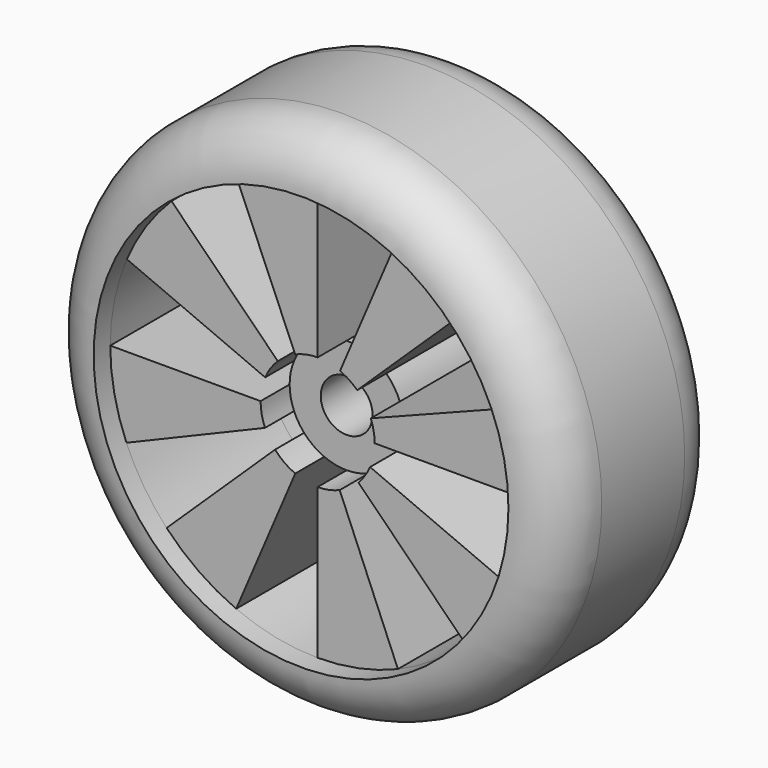
from build123d import *

# Parameters (mm, degrees)
F0_R      = 50
F1_DEPTH  = 40
F3_R      = 10
F2_R      = 40
F4_DEPTH  = 4
F5_R      = 40
F6_DEPTH  = 4
F7_R      = 11
F8_DEPTH  = 7
F9_R      = 11
F10_DEPTH = 7
F12_D     = 10
F14_DEPTH = 25
F16_DEPTH = 32


with BuildPart() as f1:
    # F0 (on Front) → F1 (new body)
    with BuildSketch(Plane.XZ):
        Circle(F0_R)
    extrude(amount=F1_DEPTH)

    # F3
    f3_edges = [f1.edges().sort_by_distance(p)[0] for p in [
        (-50, 0, 0),
        (50, -20, 0),
        (-50, -40, 0),
    ]]
    fillet(f3_edges, radius=F3_R)

    # F2 (on face) → F4 (cut)
    with BuildSketch(Plane.XZ.offset(40)):
        Circle(F2_R)
    extrude(amount=-F4_DEPTH, mode=Mode.SUBTRACT)

    # F5 (on face) → F6 (cut)
    with BuildSketch(Plane(origin=(0, 0, 0), x_dir=(-1, 0, 0), z_dir=(0, 1, 0))):
        Circle(F5_R)
    extrude(amount=-F6_DEPTH, mode=Mode.SUBTRACT)

    # F7 (on face) → F8 (cut)
    with BuildSketch(Plane(origin=(0, -4, 0), x_dir=(-1, 0, 0), z_dir=(0, 1, 0))):
        Circle(F7_R)
    extrude(amount=-F8_DEPTH, mode=Mode.SUBTRACT)

    # F9 (on face) → F10 (cut)
    with BuildSketch(Plane.XZ.offset(36)):
        Circle(F9_R)
    extrude(amount=-F10_DEPTH, mode=Mode.SUBTRACT)

    # F12 (through all)
    with Locations(Plane(origin=(0, -4, 0), x_dir=(-1, 0, 0), z_dir=(0, 1, 0))):
        with Locations((0, 0)):
            Hole(F12_D / 2)

    # F15 (on face) + F13 (on face) → F16 (cut, through all)
    with BuildSketch(Plane(origin=(0, -4, 0), x_dir=(-1, 0, 0), z_dir=(0, 1, 0))):
        with BuildLine():
            ThreePointArc((-28.5424011699, 28.0237637632), (-33.5895367831, 21.7196459155), (-37.2675737992, 14.5302423628))
            Line((-37.2675737992, 14.5302423628), (-10.2485827948, 3.9958166498))
            ThreePointArc((-10.2485827948, 3.9958166498), (-9.1543588219, 6.0989929136), (-7.6348977457, 7.9188595399))
            Line((-7.6348977457, 7.9188595399), (-28.5424011699, 28.0237637632))
        make_face()
    with BuildSketch(Plane(origin=(0, -4, 0), x_dir=(-1, 0, 0), z_dir=(0, 1, 0))):
        with BuildLine():
            Line((-36.7860355942, -15.7094743788), (-10.1161597884, -4.3201054542))
            ThreePointArc((-10.1161597884, -4.3201054542), (-10.7767749738, -2.2047950389), (-11, 0))
            Line((-11, 0), (-40, 0))
            ThreePointArc((-40, 0), (-39.1882726321, -8.0174365052), (-36.7860355942, -15.7094743788))
        make_face()
        with BuildLine():
            Line((-15.4837652661, -36.8816080613), (-4.2580354482, -10.1424422168))
            ThreePointArc((-4.2580354482, -10.1424422168), (-6.1860832703, -9.0957338227), (-7.8680698212, -7.6872281928))
            Line((-7.8680698212, -7.6872281928), (-28.3692806361, -28.1990055887))
            ThreePointArc((-28.3692806361, -28.1990055887), (-22.3521655584, -33.1719865979), (-15.4837652661, -36.8816080613))
        make_face()
        with BuildLine():
            Line((15.7094743788, -36.7860355942), (4.3201054542, -10.1161597884))
            ThreePointArc((4.3201054542, -10.1161597884), (2.2047950389, -10.7767749738), (0, -11))
            Line((0, -11), (0, -40))
            ThreePointArc((0, -40), (8.0174365052, -39.1882726321), (15.7094743788, -36.7860355942))
        make_face()
        with BuildLine():
            ThreePointArc((10.1424422168, -4.2580354482), (9.3037407951, -5.8685949951), (8.2115068907, -7.3192318302))
            Line((8.2115068907, -7.3192318302), (29.1190103149, -27.4241360535))
            ThreePointArc((29.1190103149, -27.4241360535), (33.5360033418, -21.8022127284), (36.8816080613, -15.4837652661))
            Line((36.8816080613, -15.4837652661), (10.1424422168, -4.2580354482))
        make_face()
        with BuildLine():
            Line((36.7860355942, 15.7094743788), (10.1161597884, 4.3201054542))
            ThreePointArc((10.1161597884, 4.3201054542), (10.7767749738, 2.2047950389), (11, 0))
            Line((11, 0), (40, 0))
            ThreePointArc((40, 0), (39.1882726321, 8.0174365052), (36.7860355942, 15.7094743788))
        make_face()
        with BuildLine():
            Line((15.7439326676, 36.7713010942), (4.3295814836, 10.1121078009))
            ThreePointArc((4.3295814836, 10.1121078009), (6.1099144323, 9.1470730635), (7.6831729155, 7.8720298494))
            Line((7.6831729155, 7.8720298494), (28.1843837304, 28.3838072453))
            ThreePointArc((28.1843837304, 28.3838072453), (22.360942705, 33.1660706347), (15.7439326676, 36.7713010942))
        make_face()
        with BuildLine():
            Line((-15.7094743788, 36.7860355942), (-4.3201054542, 10.1161597884))
            ThreePointArc((-4.3201054542, 10.1161597884), (-2.2047950389, 10.7767749738), (0, 11))
            Line((0, 11), (0, 40))
            ThreePointArc((0, 40), (-8.0174365052, 39.1882726321), (-15.7094743788, 36.7860355942))
        make_face()
    extrude(amount=-F16_DEPTH, mode=Mode.SUBTRACT)


with BuildPart() as f14:
    # F13 (on face) → F14 (new body)
    with BuildSketch(Plane(origin=(0, -4, 0), x_dir=(-1, 0, 0), z_dir=(0, 1, 0))):
        Polygon((0.6000871668, 0), (0, 0), (1.0650854519, -0.4471478873), align=None)
        Polygon((-0.1848016812, 0), (0, 0), (-0.1329806194, 0.0518477709), align=None)
        Polygon((0, 0.1848969303), (0, 0), (0.1384923008, 0.3234606117), align=None)
        Polygon((-0.1329806194, 0.0518477709), (0, 0), (-0.0553225533, 0.129545863), align=None)
        Polygon((0.1384923008, 0.3234606117), (0, 0), (0.4155446231, 0.1774583073), (0.1998616656, 0.3848616071), align=None)
        Polygon((-0.3224203372, -0.1376895864), (0, 0), (-0.1848016812, 0), align=None)
        Polygon((0.4155446231, 0.1774583073), (0, 0), (0.6000871668, 0), align=None)
        Polygon((-0.0553225533, 0.129545863), (0, 0), (0, 0.1848969303), align=None)
        Polygon((0, 0.1848969303), (0.1384923008, 0.3234606117), (0.1750125609, 0.4087568022), (0, 0.5770509644), align=None)
        Polygon((0.1750125609, 0.4087568022), (0.1384923008, 0.3234606117), (0.1998616656, 0.3848616071), align=None)
        Polygon((-0.4181423928, 0.9791416679), (-0.0553225533, 0.129545863), (0, 0.1848969303), (0, 0.5770509644), align=None)
    extrude(amount=F14_DEPTH)


solid = Compound([f1.part, f14.part])
